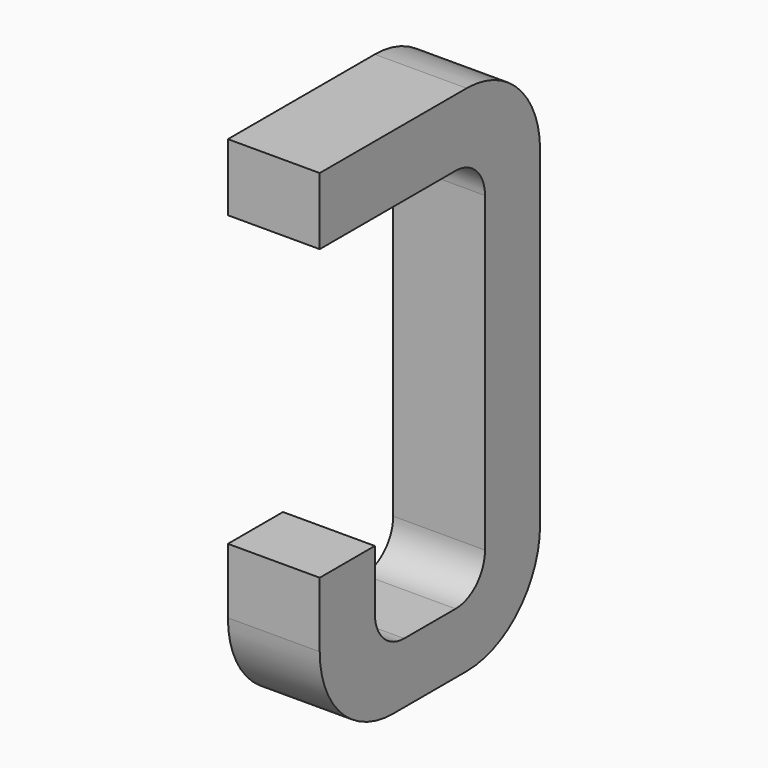
from build123d import *

# Parameters (mm, degrees)
BOX128_W     = 0.5
BOX128_H     = 1.5
BOX128_DEPTH = 2.795
FILLET341_R  = 0.5
FILLET336_R  = 0.5
FILLET342_R  = 0.5
BOX136_W     = 0.75
BOX136_H     = 2.1
BOX136_DEPTH = 1
FILLET332_R  = 0.2
FILLET349_R  = 0.2
FILLET338_R  = 0.2
FILLET343_R  = 0.2
BOX132_W     = 1
BOX132_H     = 1.575
BOX132_DEPTH = 3


with BuildPart() as part:
    # Box128 → Box128 (join)
    with BuildSketch(Plane(origin=(-0.25, 11.125, 0), x_dir=(1, 0, 0), z_dir=(0, 0, 1))):
        with Locations((0.25, 0.75)):
            Rectangle(BOX128_W, BOX128_H)
    extrude(amount=BOX128_DEPTH)

    # Fillet341
    fillet341_edges = [part.edges().sort_by_distance(p)[0] for p in [
        (0, 12.625, 0),
    ]]
    fillet(fillet341_edges, radius=FILLET341_R)

    # Fillet336
    fillet336_edges = [part.edges().sort_by_distance(p)[0] for p in [
        (0, 12.625, 2.795),
    ]]
    fillet(fillet336_edges, radius=FILLET336_R)

    # Fillet342
    fillet342_edges = [part.edges().sort_by_distance(p)[0] for p in [
        (0, 11.125, 0),
    ]]
    fillet(fillet342_edges, radius=FILLET342_R)

    # Box136 → Box136 (cut)
    with BuildSketch(Plane(origin=(-0.5, 11.5, 0.33), x_dir=(0, 1, 0), z_dir=(1, 0, 0))):
        with Locations((0.375, 1.05)):
            Rectangle(BOX136_W, BOX136_H)
    extrude(amount=BOX136_DEPTH, mode=Mode.SUBTRACT)

    # Fillet332
    fillet332_edges = [part.edges().sort_by_distance(p)[0] for p in [
        (0, 11.5, 0.33),
    ]]
    fillet(fillet332_edges, radius=FILLET332_R)

    # Fillet349
    fillet349_edges = [part.edges().sort_by_distance(p)[0] for p in [
        (0, 12.25, 0.33),
    ]]
    fillet(fillet349_edges, radius=FILLET349_R)

    # Fillet338
    fillet338_edges = [part.edges().sort_by_distance(p)[0] for p in [
        (0, 11.5, 2.43),
    ]]
    fillet(fillet338_edges, radius=FILLET338_R)

    # Fillet343
    fillet343_edges = [part.edges().sort_by_distance(p)[0] for p in [
        (0, 12.25, 2.43),
    ]]
    fillet(fillet343_edges, radius=FILLET343_R)

    # Box132 → Box132 (cut)
    with BuildSketch(Plane(origin=(-1, 11, 0.855), x_dir=(0, 1, 0), z_dir=(1, 0, 0))):
        with Locations((0.5, 0.7875)):
            Rectangle(BOX132_W, BOX132_H)
    extrude(amount=BOX132_DEPTH, mode=Mode.SUBTRACT)


with BuildPart() as part_1:
    # Body050 placement: moved
    add(part.part.moved(Location((-10.16, 0, 0))))


solid = part_1.part
